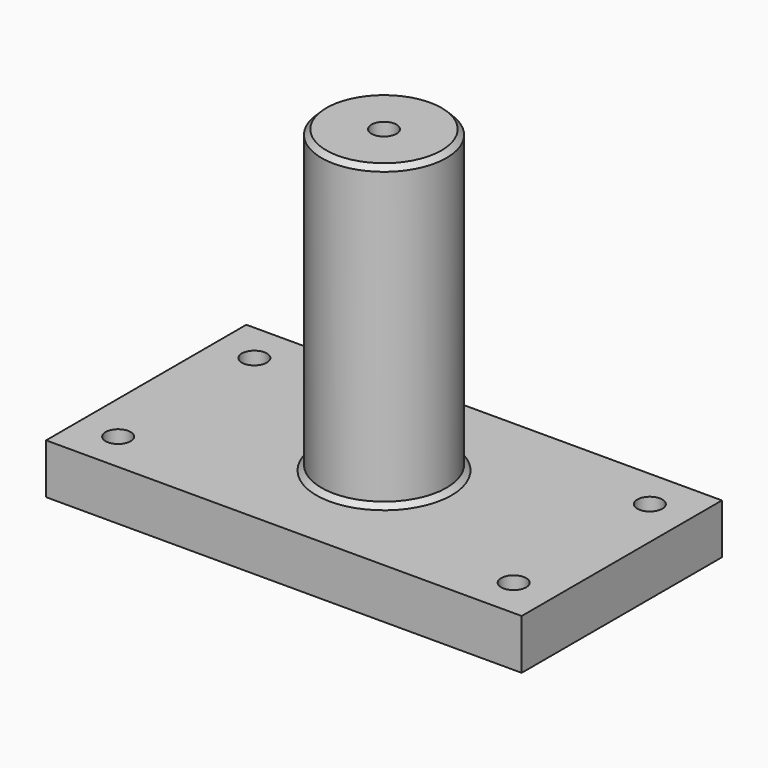
from build123d import *

# Parameters (mm, degrees)
F0_W      = 95
F0_H      = 50
F0_R      = 2.5
F1_DEPTH  = 10
F2_R      = 12.5
F2_R_2    = 2.5
F3_DEPTH  = 70
F3_FACE_R = 2.5
F4_DEPTH  = 100
F5_SIZE   = 1


with BuildPart() as f1:
    # F0 (on Top) → F1 (new body)
    with BuildSketch(Plane.XY):
        Rectangle(F0_W, F0_H)
        with Locations((-39.5, -17)):
            Circle(F0_R, mode=Mode.SUBTRACT)
        with Locations((39.5, -17)):
            Circle(F0_R, mode=Mode.SUBTRACT)
        with Locations((-39.5, 17)):
            Circle(F0_R, mode=Mode.SUBTRACT)
        with Locations((39.5, 17)):
            Circle(F0_R, mode=Mode.SUBTRACT)
    extrude(amount=F1_DEPTH)

    # F2 (on Top) → F3 (join)
    with BuildSketch(Plane.XY):
        Circle(F2_R)
        Circle(F2_R_2, mode=Mode.SUBTRACT)
    extrude(amount=F3_DEPTH)

    # F3_face (on face) → F4 (cut)
    with BuildSketch(Plane.XY.offset(10)):
        Circle(F3_FACE_R)
    extrude(amount=-F4_DEPTH, mode=Mode.SUBTRACT)

    # F5
    f5_edges = [f1.edges().sort_by_distance(p)[0] for p in [
        (-12.5, 0, 70),
        (-12.5, 0, 10),
    ]]
    chamfer(f5_edges, length=F5_SIZE)


solid = f1.part
